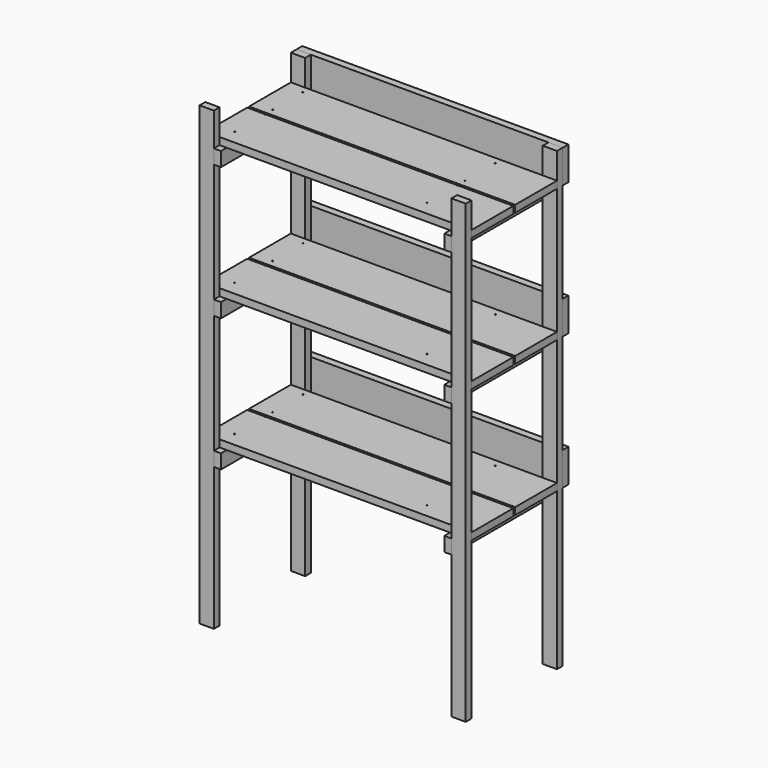
from build123d import *

# Parameters (mm, degrees)
F0_W      = 38.1
F0_H      = 19.05
F1_DEPTH  = 1219.2
F2_W      = 19.05
F2_H      = 38.1
F4_DEPTH  = 342.9
F5_W      = 139.7
F5_H      = 19.05
F6_DEPTH  = 711.2
F7_R      = 1.5875
F8_DEPTH  = 1149.351
F9_W      = 19.05
F9_H      = 88.9
F10_DEPTH = 711.2


with BuildPart() as f1:
    # F0 (on Top) → F1 (new body)
    with BuildSketch(Plane.XY):
        with Locations((19.05, 9.525)):
            Rectangle(F0_W, F0_H)
        with Locations((692.15, 9.525)):
            Rectangle(F0_W, F0_H)
        with Locations((692.15, 314.325)):
            Rectangle(F0_W, F0_H)
        with Locations((19.05, 314.325)):
            Rectangle(F0_W, F0_H)
    extrude(amount=F1_DEPTH)


with BuildPart() as f4:
    # F2 (on face) → F4 (new body, through all)
    with BuildSketch(Plane.XZ):
        with Locations((47.625, 400.05)):
            Rectangle(F2_W, F2_H)
        with Locations((663.575, 400.05)):
            Rectangle(F2_W, F2_H)
        with Locations((663.575, 755.65)):
            Rectangle(F2_W, F2_H)
        with Locations((47.625, 755.65)):
            Rectangle(F2_W, F2_H)
        with Locations((663.575, 1111.25)):
            Rectangle(F2_W, F2_H)
        with Locations((47.625, 1111.25)):
            Rectangle(F2_W, F2_H)
    extrude(amount=-F4_DEPTH)


with BuildPart() as f6:
    # F5 (on face) → F6 (new body, through all)
    with BuildSketch(Plane(origin=(0, 0, 0), x_dir=(0, -1, 0), z_dir=(-1, 0, 0))):
        with Locations((-234.95, 428.625)):
            Rectangle(F5_W, F5_H)
        with Locations((-88.9, 428.625)):
            Rectangle(F5_W, F5_H)
        with Locations((-234.95, 784.225)):
            Rectangle(F5_W, F5_H)
        with Locations((-88.9, 784.225)):
            Rectangle(F5_W, F5_H)
        with Locations((-234.95, 1139.825)):
            Rectangle(F5_W, F5_H)
        with Locations((-88.9, 1139.825)):
            Rectangle(F5_W, F5_H)
    extrude(amount=-F6_DEPTH)


with BuildPart() as f8_tool:
    # F7 (on face) → F8 (new body, through all)
    with BuildSketch(Plane.XY.offset(1149.35)):
        with Locations((47.625, 285.75)):
            Circle(F7_R)
        with Locations((47.625, 184.15)):
            Circle(F7_R)
        with Locations((47.625, 57.15)):
            Circle(F7_R)
        with Locations((47.625, 158.75)):
            Circle(F7_R)
        with Locations((561.975, 285.75)):
            Circle(F7_R)
        with Locations((561.975, 184.15)):
            Circle(F7_R)
        with Locations((561.975, 158.75)):
            Circle(F7_R)
        with Locations((561.975, 57.15)):
            Circle(F7_R)
    extrude(amount=-F8_DEPTH)


with BuildPart() as f4_1:
    add(f4.part)

    # F8: cut by f8_tool
    add(f8_tool.part, mode=Mode.SUBTRACT)


with BuildPart() as f6_1:
    add(f6.part)

    # F8: cut by f8_tool
    add(f8_tool.part, mode=Mode.SUBTRACT)


with BuildPart() as f10:
    # F9 (on face) → F10 (new body, through all)
    with BuildSketch(Plane.YZ.offset(711.2)):
        with Locations((333.375, 463.55)):
            Rectangle(F9_W, F9_H)
        with Locations((333.375, 819.15)):
            Rectangle(F9_W, F9_H)
        with Locations((333.375, 1174.75)):
            Rectangle(F9_W, F9_H)
    extrude(amount=-F10_DEPTH)


solid = Compound([f1.part, f4_1.part, f6_1.part, f10.part])
